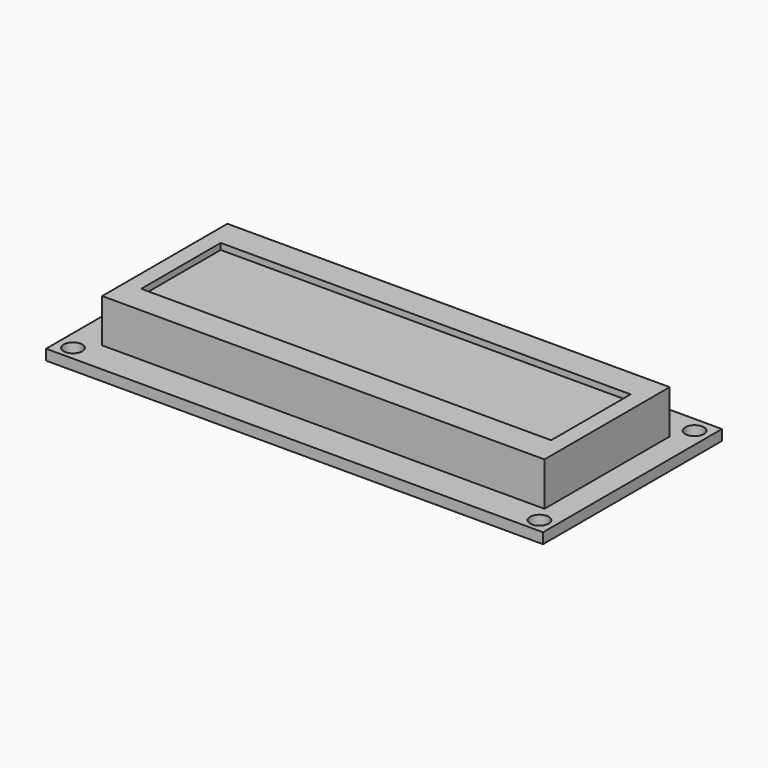
from build123d import *

# Parameters (mm, degrees)
SKETCH031_W     = 80
SKETCH031_H     = 36
PAD009_DEPTH    = 1.7
SKETCH032_W     = 71.2
SKETCH032_H     = 25.2
PAD010_DEPTH    = 7
SKETCH033_R     = 1.5
POCKET008_DEPTH = 1.701
SKETCH034_W     = 66
SKETCH034_H     = 16
POCKET009_DEPTH = 1


with BuildPart() as part:
    # Sketch031 → Pad009 (new body)
    with BuildSketch(Plane.XY):
        with Locations((40, 18)):
            Rectangle(SKETCH031_W, SKETCH031_H)
    extrude(amount=PAD009_DEPTH)

    # Sketch032 (on Face6 of Pad009) → Pad010 (join)
    with BuildSketch(Plane.XY.offset(1.7)):
        with Locations((40.55, 17.7)):
            Rectangle(SKETCH032_W, SKETCH032_H)
    extrude(amount=PAD010_DEPTH)

    # Sketch033 (on Face5 of Pad010) → Pocket008 (cut, through all)
    with BuildSketch(Plane.XY.offset(1.7)):
        with Locations((2.5, 33.5)):
            Circle(SKETCH033_R)
        with Locations((2.5, 2.28424)):
            Circle(SKETCH033_R)
        with Locations((77.6, 33.5)):
            Circle(SKETCH033_R)
        with Locations((77.6, 2.28424)):
            Circle(SKETCH033_R)
    extrude(amount=-POCKET008_DEPTH, mode=Mode.SUBTRACT)

    # Sketch034 (on Face15 of Pocket008) → Pocket009 (cut)
    with BuildSketch(Plane.XY.offset(8.7)):
        with Locations((40.55, 17.7)):
            Rectangle(SKETCH034_W, SKETCH034_H)
    extrude(amount=-POCKET009_DEPTH, mode=Mode.SUBTRACT)


with BuildPart() as part_1:
    # Body009 placement: moved
    add(part.part.moved(Location((26, 8, 36))))


solid = part_1.part
